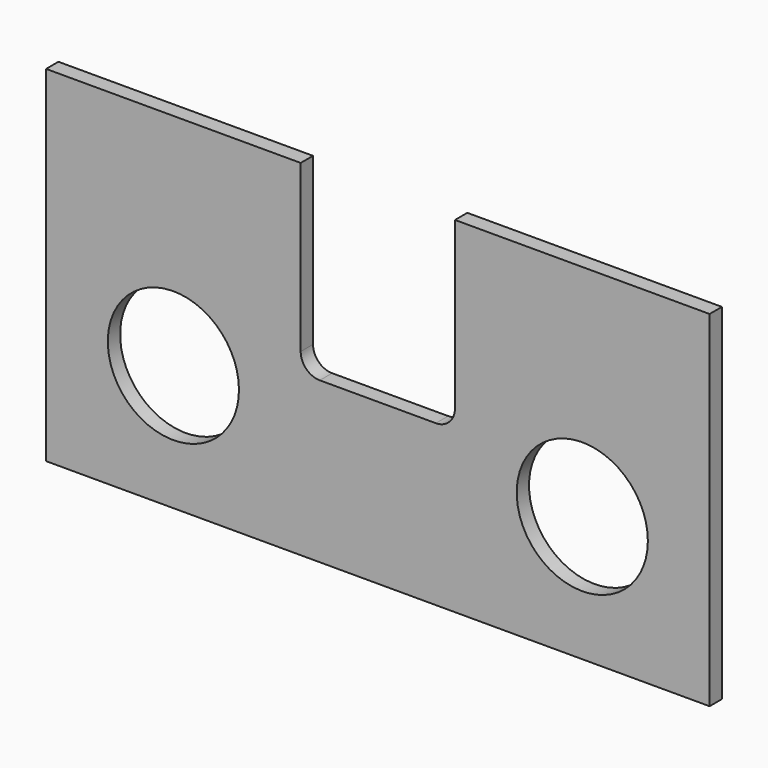
from build123d import *

# Parameters (mm, degrees)
F0_R     = 26.9875
F1_DEPTH = 6.35


with BuildPart() as f1:
    # F0 (on Front) → F1 (new body)
    with BuildSketch(Plane.XZ):
        with BuildLine():
            Line((-31.75, 76.2), (-136.525, 76.2))
            Line((-136.525, 76.2), (-136.525, -65.913))
            Line((-136.525, -65.913), (136.525, -65.913))
            Line((136.525, -65.913), (136.525, 76.2))
            Line((136.525, 76.2), (31.75, 76.2))
            Line((31.75, 76.2), (31.75, 7.874))
            ThreePointArc((31.75, 7.874), (29.443759, 2.306241), (23.876, 0))
            Line((23.876, 0), (-23.876, 0))
            ThreePointArc((-23.876, 0), (-29.443759, 2.306241), (-31.75, 7.874))
            Line((-31.75, 7.874), (-31.75, 76.2))
        make_face()
        with Locations((-84.1375, -14.2875)):
            Circle(F0_R, mode=Mode.SUBTRACT)
        with Locations((84.1375, -14.2875)):
            Circle(F0_R, mode=Mode.SUBTRACT)
    extrude(amount=F1_DEPTH)


solid = f1.part
